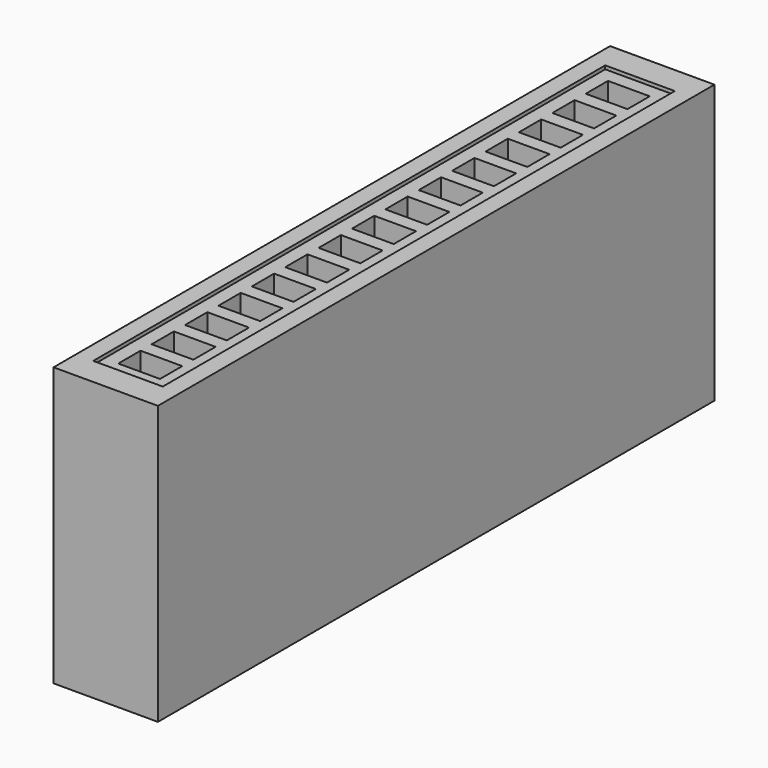
from build123d import *

# Parameters (mm, degrees)
F0_W     = 0.4
F0_H     = 0.8
F0_W_2   = 1.2
F1_DEPTH = 8
F0_H_2   = 0.4
F2_DEPTH = 7.9
F3_DEPTH = 0.1


with BuildPart() as f1:
    # F0 (on Top) → F1 (new body)
    with BuildSketch(Plane.XY):
        Polygon((-52.9434660673, 15.7446456737), (-53.4434660673, 15.7446456737), (-53.4434660673, -4.2553543263), (-52.9434660673, -4.2553543263), (-52.9434660673, -3.4553543263), (-52.9434660673, -3.0553543263), (-52.9434660673, -2.2553543263), (-52.9434660673, -1.8553543263), (-52.9434660673, -1.0553543263), (-52.9434660673, -0.6553543263), (-52.9434660673, 0.1446456737), (-52.9434660673, 0.5446456737), (-52.9434660673, 1.3446456737), (-52.9434660673, 1.7446456737), (-52.9434660673, 2.5446456737), (-52.9434660673, 2.9446456737), (-52.9434660673, 3.7446456737), (-52.9434660673, 4.1446456737), (-52.9434660673, 4.9446456737), (-52.9434660673, 5.3446456737), (-52.9434660673, 6.1446456737), (-52.9434660673, 6.5446456737), (-52.9434660673, 7.3446456737), (-52.9434660673, 7.7446456737), (-52.9434660673, 8.5446456737), (-52.9434660673, 8.9446456737), (-52.9434660673, 9.7446456737), (-52.9434660673, 10.1446456737), (-52.9434660673, 10.9446456737), (-52.9434660673, 11.3446456737), (-52.9434660673, 12.1446456737), (-52.9434660673, 12.5446456737), (-52.9434660673, 13.3446456737), (-52.9434660673, 13.7446456737), (-52.9434660673, 14.5446456737), (-52.9434660673, 14.9446456737), align=None)
        with Locations((-52.7434660673, 15.3446456737)):
            Rectangle(F0_W, F0_H)
        with Locations((-51.9434660673, 15.3446456737)):
            Rectangle(F0_W_2, F0_H)
        with Locations((-52.7434660673, -3.8553543263)):
            Rectangle(F0_W, F0_H)
        with Locations((-51.1434660673, 15.3446456737)):
            Rectangle(F0_W, F0_H)
        with Locations((-51.9434660673, -3.8553543263)):
            Rectangle(F0_W_2, F0_H)
        Polygon((-50.4434660673, 15.7446456737), (-50.9434660673, 15.7446456737), (-50.9434660673, 14.9446456737), (-50.9434660673, 14.5446456737), (-50.9434660673, 13.7446456737), (-50.9434660673, 13.3446456737), (-50.9434660673, 12.5446456737), (-50.9434660673, 12.1446456737), (-50.9434660673, 11.3446456737), (-50.9434660673, 10.9446456737), (-50.9434660673, 10.1446456737), (-50.9434660673, 9.7446456737), (-50.9434660673, 8.9446456737), (-50.9434660673, 8.5446456737), (-50.9434660673, 7.7446456737), (-50.9434660673, 7.3446456737), (-50.9434660673, 6.5446456737), (-50.9434660673, 6.1446456737), (-50.9434660673, 5.3446456737), (-50.9434660673, 4.9446456737), (-50.9434660673, 4.1446456737), (-50.9434660673, 3.7446456737), (-50.9434660673, 2.9446456737), (-50.9434660673, 2.5446456737), (-50.9434660673, 1.7446456737), (-50.9434660673, 1.3446456737), (-50.9434660673, 0.5446456737), (-50.9434660673, 0.1446456737), (-50.9434660673, -0.6553543263), (-50.9434660673, -1.0553543263), (-50.9434660673, -1.8553543263), (-50.9434660673, -2.2553543263), (-50.9434660673, -3.0553543263), (-50.9434660673, -3.4553543263), (-50.9434660673, -4.2553543263), (-50.4434660673, -4.2553543263), align=None)
        with Locations((-51.1434660673, -3.8553543263)):
            Rectangle(F0_W, F0_H)
    extrude(amount=F1_DEPTH)

    # F0 (on Top) → F2 (join)
    with BuildSketch(Plane.XY):
        with Locations((-52.7434660673, 14.7446456737)):
            Rectangle(F0_W, F0_H_2)
        with Locations((-52.7434660673, 14.1446456737)):
            Rectangle(F0_W, F0_H)
        with Locations((-52.7434660673, 13.5446456737)):
            Rectangle(F0_W, F0_H_2)
        with Locations((-52.7434660673, 12.9446456737)):
            Rectangle(F0_W, F0_H)
        with Locations((-52.7434660673, 12.3446456737)):
            Rectangle(F0_W, F0_H_2)
        with Locations((-52.7434660673, 11.7446456737)):
            Rectangle(F0_W, F0_H)
        with Locations((-52.7434660673, 11.1446456737)):
            Rectangle(F0_W, F0_H_2)
        with Locations((-52.7434660673, 10.5446456737)):
            Rectangle(F0_W, F0_H)
        with Locations((-52.7434660673, 9.9446456737)):
            Rectangle(F0_W, F0_H_2)
        with Locations((-51.9434660673, 9.9446456737)):
            Rectangle(F0_W_2, F0_H_2)
        with Locations((-51.9434660673, 11.1446456737)):
            Rectangle(F0_W_2, F0_H_2)
        with Locations((-51.9434660673, 12.3446456737)):
            Rectangle(F0_W_2, F0_H_2)
        with Locations((-51.9434660673, 13.5446456737)):
            Rectangle(F0_W_2, F0_H_2)
        with Locations((-51.9434660673, 14.7446456737)):
            Rectangle(F0_W_2, F0_H_2)
        with Locations((-51.9434660673, -3.2553543263)):
            Rectangle(F0_W_2, F0_H_2)
        with Locations((-51.9434660673, -2.0553543263)):
            Rectangle(F0_W_2, F0_H_2)
        with Locations((-51.9434660673, -0.8553543263)):
            Rectangle(F0_W_2, F0_H_2)
        with Locations((-51.9434660673, 0.3446456737)):
            Rectangle(F0_W_2, F0_H_2)
        with Locations((-51.9434660673, 1.5446456737)):
            Rectangle(F0_W_2, F0_H_2)
        with Locations((-51.9434660673, 2.7446456737)):
            Rectangle(F0_W_2, F0_H_2)
        with Locations((-51.9434660673, 3.9446456737)):
            Rectangle(F0_W_2, F0_H_2)
        with Locations((-51.9434660673, 5.1446456737)):
            Rectangle(F0_W_2, F0_H_2)
        with Locations((-51.9434660673, 6.3446456737)):
            Rectangle(F0_W_2, F0_H_2)
        with Locations((-51.9434660673, 7.5446456737)):
            Rectangle(F0_W_2, F0_H_2)
        with Locations((-51.9434660673, 8.7446456737)):
            Rectangle(F0_W_2, F0_H_2)
        with Locations((-51.1434660673, 14.7446456737)):
            Rectangle(F0_W, F0_H_2)
        with Locations((-51.1434660673, 13.5446456737)):
            Rectangle(F0_W, F0_H_2)
        with Locations((-51.1434660673, 12.3446456737)):
            Rectangle(F0_W, F0_H_2)
        with Locations((-51.1434660673, 11.1446456737)):
            Rectangle(F0_W, F0_H_2)
        with Locations((-51.1434660673, 9.9446456737)):
            Rectangle(F0_W, F0_H_2)
        with Locations((-51.1434660673, 8.7446456737)):
            Rectangle(F0_W, F0_H_2)
        with Locations((-51.1434660673, 7.5446456737)):
            Rectangle(F0_W, F0_H_2)
        with Locations((-51.1434660673, 6.3446456737)):
            Rectangle(F0_W, F0_H_2)
        with Locations((-51.1434660673, 5.1446456737)):
            Rectangle(F0_W, F0_H_2)
        with Locations((-51.1434660673, 3.9446456737)):
            Rectangle(F0_W, F0_H_2)
        with Locations((-51.1434660673, 2.7446456737)):
            Rectangle(F0_W, F0_H_2)
        with Locations((-51.1434660673, 1.5446456737)):
            Rectangle(F0_W, F0_H_2)
        with Locations((-51.1434660673, 0.3446456737)):
            Rectangle(F0_W, F0_H_2)
        with Locations((-51.1434660673, -0.8553543263)):
            Rectangle(F0_W, F0_H_2)
        with Locations((-51.1434660673, -2.0553543263)):
            Rectangle(F0_W, F0_H_2)
        with Locations((-51.1434660673, -3.2553543263)):
            Rectangle(F0_W, F0_H_2)
        with Locations((-52.7434660673, -3.2553543263)):
            Rectangle(F0_W, F0_H_2)
        with Locations((-52.7434660673, -2.0553543263)):
            Rectangle(F0_W, F0_H_2)
        with Locations((-52.7434660673, -0.8553543263)):
            Rectangle(F0_W, F0_H_2)
        with Locations((-52.7434660673, 0.3446456737)):
            Rectangle(F0_W, F0_H_2)
        with Locations((-52.7434660673, 1.5446456737)):
            Rectangle(F0_W, F0_H_2)
        with Locations((-52.7434660673, 2.7446456737)):
            Rectangle(F0_W, F0_H_2)
        with Locations((-52.7434660673, 3.9446456737)):
            Rectangle(F0_W, F0_H_2)
        with Locations((-52.7434660673, 5.1446456737)):
            Rectangle(F0_W, F0_H_2)
        with Locations((-52.7434660673, 6.3446456737)):
            Rectangle(F0_W, F0_H_2)
        with Locations((-52.7434660673, 7.5446456737)):
            Rectangle(F0_W, F0_H_2)
        with Locations((-52.7434660673, 8.7446456737)):
            Rectangle(F0_W, F0_H_2)
        with Locations((-51.1434660673, 14.1446456737)):
            Rectangle(F0_W, F0_H)
        with Locations((-51.1434660673, 12.9446456737)):
            Rectangle(F0_W, F0_H)
        with Locations((-51.1434660673, 11.7446456737)):
            Rectangle(F0_W, F0_H)
        with Locations((-51.1434660673, 10.5446456737)):
            Rectangle(F0_W, F0_H)
        with Locations((-51.1434660673, 9.3446456737)):
            Rectangle(F0_W, F0_H)
        with Locations((-52.7434660673, 9.3446456737)):
            Rectangle(F0_W, F0_H)
        with Locations((-52.7434660673, 8.1446456737)):
            Rectangle(F0_W, F0_H)
        with Locations((-51.1434660673, 8.1446456737)):
            Rectangle(F0_W, F0_H)
        with Locations((-51.1434660673, 6.9446456737)):
            Rectangle(F0_W, F0_H)
        with Locations((-52.7434660673, 6.9446456737)):
            Rectangle(F0_W, F0_H)
        with Locations((-52.7434660673, 5.7446456737)):
            Rectangle(F0_W, F0_H)
        with Locations((-51.1434660673, 5.7446456737)):
            Rectangle(F0_W, F0_H)
        with Locations((-51.1434660673, 4.5446456737)):
            Rectangle(F0_W, F0_H)
        with Locations((-52.7434660673, 4.5446456737)):
            Rectangle(F0_W, F0_H)
        with Locations((-52.7434660673, 3.3446456737)):
            Rectangle(F0_W, F0_H)
        with Locations((-51.1434660673, 3.3446456737)):
            Rectangle(F0_W, F0_H)
        with Locations((-51.1434660673, 2.1446456737)):
            Rectangle(F0_W, F0_H)
        with Locations((-52.7434660673, 2.1446456737)):
            Rectangle(F0_W, F0_H)
        with Locations((-52.7434660673, 0.9446456737)):
            Rectangle(F0_W, F0_H)
        with Locations((-51.1434660673, 0.9446456737)):
            Rectangle(F0_W, F0_H)
        with Locations((-51.1434660673, -0.2553543263)):
            Rectangle(F0_W, F0_H)
        with Locations((-52.7434660673, -0.2553543263)):
            Rectangle(F0_W, F0_H)
        with Locations((-52.7434660673, -1.4553543263)):
            Rectangle(F0_W, F0_H)
        with Locations((-51.1434660673, -1.4553543263)):
            Rectangle(F0_W, F0_H)
        with Locations((-51.1434660673, -2.6553543263)):
            Rectangle(F0_W, F0_H)
        with Locations((-52.7434660673, -2.6553543263)):
            Rectangle(F0_W, F0_H)
    extrude(amount=F2_DEPTH)

    # F0 (on Top) → F3 (join)
    with BuildSketch(Plane.XY):
        with Locations((-51.9434660673, 14.1446456737)):
            Rectangle(F0_W_2, F0_H)
        with Locations((-51.9434660673, 12.9446456737)):
            Rectangle(F0_W_2, F0_H)
        with Locations((-51.9434660673, 11.7446456737)):
            Rectangle(F0_W_2, F0_H)
        with Locations((-51.9434660673, 10.5446456737)):
            Rectangle(F0_W_2, F0_H)
        with Locations((-51.9434660673, 9.3446456737)):
            Rectangle(F0_W_2, F0_H)
        with Locations((-51.9434660673, 8.1446456737)):
            Rectangle(F0_W_2, F0_H)
        with Locations((-51.9434660673, 6.9446456737)):
            Rectangle(F0_W_2, F0_H)
        with Locations((-51.9434660673, 5.7446456737)):
            Rectangle(F0_W_2, F0_H)
        with Locations((-51.9434660673, 4.5446456737)):
            Rectangle(F0_W_2, F0_H)
        with Locations((-51.9434660673, 3.3446456737)):
            Rectangle(F0_W_2, F0_H)
        with Locations((-51.9434660673, 2.1446456737)):
            Rectangle(F0_W_2, F0_H)
        with Locations((-51.9434660673, 0.9446456737)):
            Rectangle(F0_W_2, F0_H)
        with Locations((-51.9434660673, -0.2553543263)):
            Rectangle(F0_W_2, F0_H)
        with Locations((-51.9434660673, -1.4553543263)):
            Rectangle(F0_W_2, F0_H)
        with Locations((-51.9434660673, -2.6553543263)):
            Rectangle(F0_W_2, F0_H)
    extrude(amount=F3_DEPTH)


solid = f1.part
